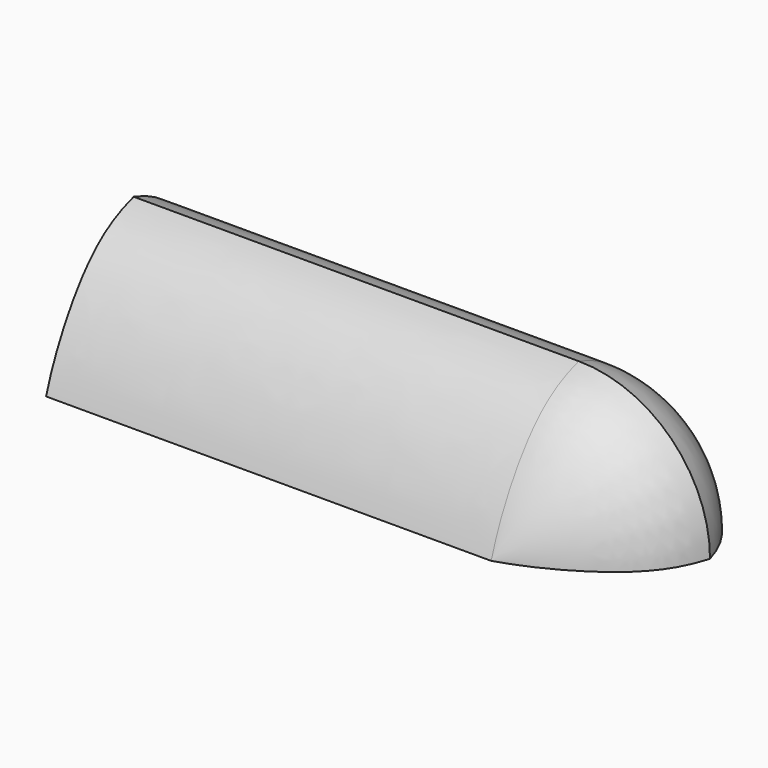
from build123d import *

# Parameters (mm, degrees)
F1_ANGLE = 90
F3_DEPTH = 1099.05887


with BuildPart() as f1:
    # F0 (on Top) → F1 (revolve)
    with BuildSketch(Plane.XY):
        with BuildLine():
            add(Edge.make_bspline(
                [(1043.075799942, 0), (1026.7281532288, -55.0214387476), (968.1660984323, -153.3397048983), (807.7974702828, -242.9443305616), (718.8482880592, -270.2649235725)],
                knots=[0, 0, 0, 0, 0.1184051321, 0.2703068709, 0.2703068709, 0.2703068709, 0.2703068709], degree=3))
            add(Edge.make_bspline(
                [(1043.075799942, 0), (1026.7281532288, 55.0214387476), (968.1660984323, 153.3397048983), (807.7974702828, 242.9443305616), (718.8482880592, 270.2649235725)],
                knots=[0, 0, 0, 0, 0.1184051321, 0.2703068709, 0.2703068709, 0.2703068709, 0.2703068709], degree=3))
            Line((718.8482880592, 270.2649235725), (718.8482880592, -270.2649235725))
        make_face()
    revolve(axis=Axis((718.8482880592, 0, 0), (0, -1, 0)), revolution_arc=F1_ANGLE)

    # F2 (on face) → F3 (join)
    with BuildSketch(Plane(origin=(718.8482880592, 0, 0), x_dir=(0, -1, 0), z_dir=(-1, 0, 0))):
        with BuildLine():
            add(Edge.make_bspline(
                [(0, 324.2275118828), (-55.0214387476, 307.8798651695), (-153.3397048983, 249.3178103731), (-242.9443305616, 88.9491822235), (-270.2649235725, 0)],
                knots=[0, 0, 0, 0, 0.1184051321, 0.2703068709, 0.2703068709, 0.2703068709, 0.2703068709], degree=3))
            Line((-270.2649235725, 0), (270.2649235725, 0))
            add(Edge.make_bspline(
                [(0, 324.2275118828), (55.0214387476, 307.8798651695), (153.3397048983, 249.3178103731), (242.9443305616, 88.9491822235), (270.2649235725, 0)],
                knots=[0, 0, 0, 0, 0.1184051321, 0.2703068709, 0.2703068709, 0.2703068709, 0.2703068709], degree=3))
        make_face()
    extrude(amount=F3_DEPTH)


solid = f1.part
